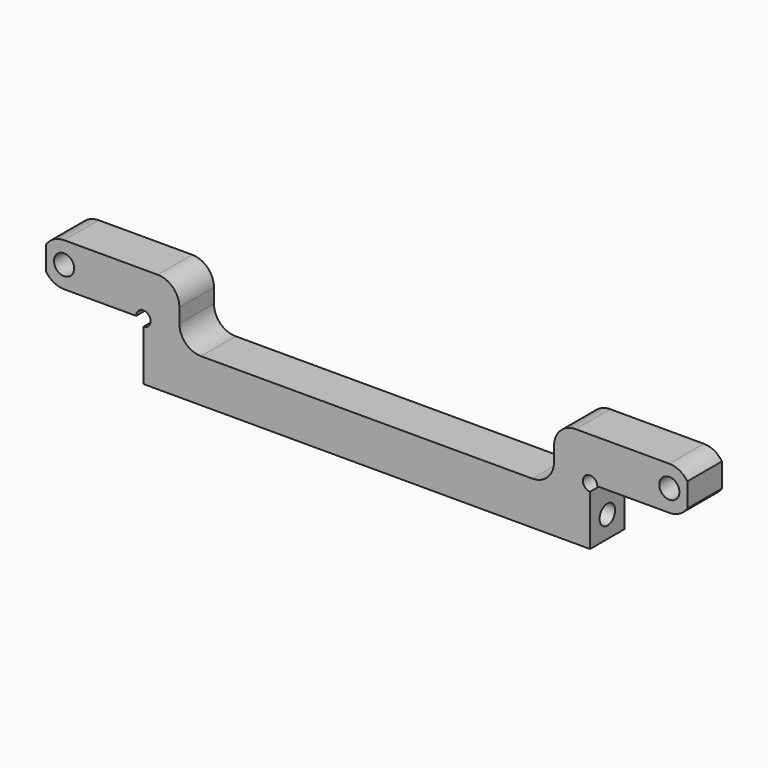
from build123d import *

# Parameters (mm, degrees)
F0_R     = 1.4
F1_DEPTH = 6
F2_R     = 3
F3_R     = 1.35
F4_DEPTH = 75.501


with BuildPart() as f1:
    # F0 (on Front) → F1 (new body)
    with BuildSketch(Plane.XZ):
        with BuildLine():
            Line((-31, 4), (-31, -3))
            Line((-31, -3), (31, -3))
            Line((31, -3), (31, 4))
            ThreePointArc((31, 4), (30.292893, 5.707107), (32, 5))
            Line((32, 5), (42, 5))
            ThreePointArc((42, 5), (43.418637, 5.356618), (44.5, 6.341688))
            Line((44.5, 6.341688), (44.5, 9.658312))
            ThreePointArc((44.5, 9.658312), (43.418637, 10.643382), (42, 11))
            Line((42, 11), (26, 11))
            Line((26, 11), (26, 5))
            Line((26, 5), (26, 3))
            Line((26, 3), (-26, 3))
            Line((-26, 3), (-26, 5))
            Line((-26, 5), (-26, 11))
            Line((-26, 11), (-42, 11))
            ThreePointArc((-42, 11), (-43.418637, 10.643382), (-44.5, 9.658312))
            Line((-44.5, 9.658312), (-44.5, 6.341688))
            ThreePointArc((-44.5, 6.341688), (-43.418637, 5.356618), (-42, 5))
            Line((-42, 5), (-32, 5))
            ThreePointArc((-32, 5), (-30.292893, 5.707107), (-31, 4))
        make_face()
        with Locations((-42, 8)):
            Circle(F0_R, mode=Mode.SUBTRACT)
        with Locations((42, 8)):
            Circle(F0_R, mode=Mode.SUBTRACT)
    extrude(amount=F1_DEPTH)

    # F2
    f2_edges = [f1.edges().sort_by_distance(p)[0] for p in [
        (-26, -3, 11),
        (26, -3, 11),
        (-26, -3, 3),
        (26, -3, 3),
    ]]
    fillet(f2_edges, radius=F2_R)

    # F3 (on face) → F4 (cut, through all)
    with BuildSketch(Plane.YZ.offset(31)):
        with Locations((-3, 0)):
            Circle(F3_R)
    extrude(amount=-F4_DEPTH, mode=Mode.SUBTRACT)


solid = f1.part
